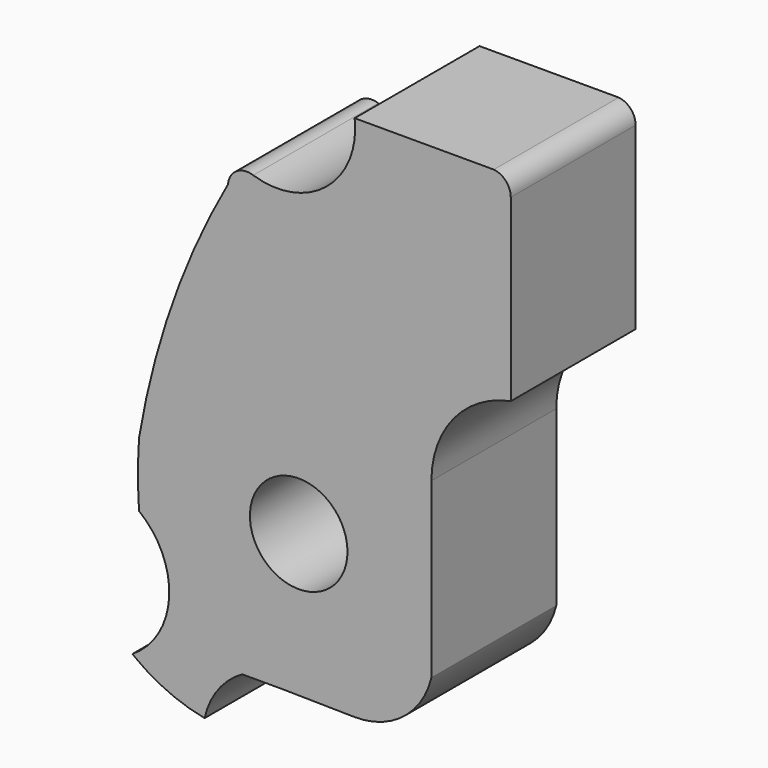
from build123d import *

# Parameters (mm, degrees)
F0_R     = 2.5
F1_DEPTH = 4


with BuildPart() as f1:
    # F0 (on Front) → F1 (new body, symmetric)
    with BuildSketch(Plane.XZ):
        with BuildLine():
            Line((-0.797178, -7.280593), (2.851209, -7.336721))
            ThreePointArc((2.851209, -7.336721), (5.361142, -6.500314), (6.8, -4.280173))
            Line((6.8, -4.280173), (6.8, 4.603175))
            ThreePointArc((6.8, 4.603175), (7.948803, 7.791949), (10.867313, 9.515414))
            Line((10.867313, 9.515414), (10.867313, 18.717312))
            ThreePointArc((10.867313, 18.717312), (10.61867, 19.366425), (10, 19.683313))
            Line((10, 19.683313), (2.86759, 19.683313))
            ThreePointArc((2.86759, 19.683313), (1.43159, 16.133334), (-2.330272, 15.417209))
            ThreePointArc((-2.330272, 15.417209), (-3.182277, 15.323191), (-3.623003, 14.587997))
            ThreePointArc((-3.623003, 14.587997), (-6.463829, 8.322883), (-8.182797, 1.66202))
            ThreePointArc((-8.182797, 1.66202), (-8.238145, 0.013758), (-8.182797, -1.634504))
            ThreePointArc((-8.182797, -1.634504), (-6.638926, -5.004085), (-8.524801, -8.194867))
            ThreePointArc((-8.524801, -8.194867), (-6.774749, -9.262294), (-4.822111, -9.88622))
            ThreePointArc((-4.822111, -9.88622), (-4.136805, -8.380333), (-2.900719, -7.280593))
            Line((-2.900719, -7.280593), (-0.797178, -7.280593))
        make_face()
        Circle(F0_R, mode=Mode.SUBTRACT)
    extrude(amount=F1_DEPTH, both=True)


solid = f1.part
